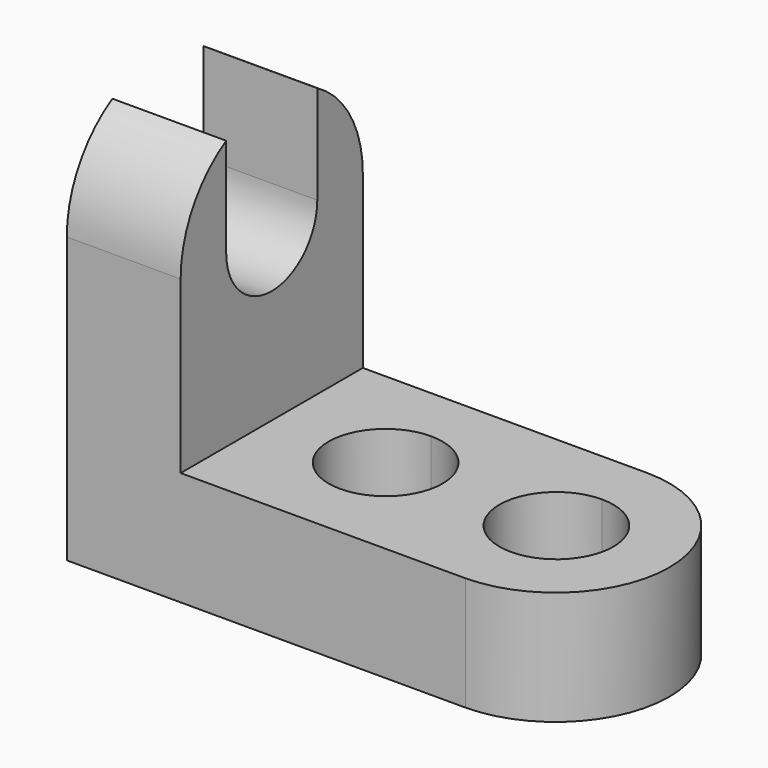
from build123d import *

# Parameters (mm, degrees)
F1_DEPTH = 25.4
F3_DEPTH = 12.701
F5_DEPTH = 12.701


with BuildPart() as f1:
    # F0 (on Front) → F1 (new body)
    with BuildSketch(Plane.XZ):
        Polygon((0, 44.45), (0, 0), (57.15, 0), (57.15, 12.7), (12.7, 12.7), (12.7, 44.45), align=None)
    extrude(amount=F1_DEPTH)

    # F2 (on face) → F3 (cut, through all)
    with BuildSketch(Plane.XY.offset(12.7)):
        with BuildLine():
            Line((25.4, -19.05), (25.4, -6.35))
            ThreePointArc((25.4, -6.35), (19.05, -12.7), (25.4, -19.05))
        make_face()
        with BuildLine():
            ThreePointArc((31.75, -12.7), (29.8901280605, -8.2098719395), (25.4, -6.35))
            Line((25.4, -6.35), (25.4, -19.05))
            ThreePointArc((25.4, -19.05), (29.8901280605, -17.1901280605), (31.75, -12.7))
        make_face()
        with BuildLine():
            Line((44.45, -19.05), (44.45, -6.35))
            ThreePointArc((44.45, -6.35), (38.1, -12.7), (44.45, -19.05))
        make_face()
        with BuildLine():
            ThreePointArc((50.8, -12.7), (48.9401280605, -8.2098719395), (44.45, -6.35))
            Line((44.45, -6.35), (44.45, -19.05))
            ThreePointArc((44.45, -19.05), (48.9401280605, -17.1901280605), (50.8, -12.7))
        make_face()
        with BuildLine():
            Line((57.15, 0), (44.45, 0))
            ThreePointArc((44.45, 0), (57.0547872188, -12.7), (44.45, -25.4))
            Line((44.45, -25.4), (57.15, -25.4))
            Line((57.15, -25.4), (57.15, 0))
        make_face()
    extrude(amount=-F3_DEPTH, mode=Mode.SUBTRACT)

    # F4 (on face) → F5 (cut, through all)
    with BuildSketch(Plane.YZ.offset(12.7)):
        with BuildLine():
            Line((-25.4, 44.45), (-25.4, 31.75))
            ThreePointArc((-25.4, 31.75), (-23.6985226281, 38.1), (-19.05, 42.7485226281))
            Line((-19.05, 42.7485226281), (-19.05, 44.45))
            Line((-19.05, 44.45), (-25.4, 44.45))
        make_face()
        with BuildLine():
            ThreePointArc((-6.35, 42.7485226281), (-1.7014773719, 38.1), (0, 31.75))
            Line((0, 31.75), (0, 44.45))
            Line((0, 44.45), (-6.35, 44.45))
            Line((-6.35, 44.45), (-6.35, 42.7485226281))
        make_face()
        with BuildLine():
            ThreePointArc((-19.05, 31.75), (-12.7, 25.4), (-6.35, 31.75))
            Line((-6.35, 31.75), (-19.05, 31.75))
        make_face()
        with BuildLine():
            Line((-19.05, 31.75), (-6.35, 31.75))
            ThreePointArc((-6.35, 31.75), (-12.7, 38.1), (-19.05, 31.75))
        make_face()
        with BuildLine():
            ThreePointArc((-19.05, 31.75), (-12.7, 38.1), (-6.35, 31.75))
            Line((-6.35, 31.75), (-6.35, 42.7485226281))
            ThreePointArc((-6.35, 42.7485226281), (-9.4129981272, 44.0172579939), (-12.7, 44.45))
            ThreePointArc((-12.7, 44.45), (-15.9870018728, 44.0172579939), (-19.05, 42.7485226281))
            Line((-19.05, 42.7485226281), (-19.05, 31.75))
        make_face()
        with BuildLine():
            ThreePointArc((-12.7, 44.45), (-9.4129981272, 44.0172579939), (-6.35, 42.7485226281))
            Line((-6.35, 42.7485226281), (-6.35, 44.45))
            Line((-6.35, 44.45), (-12.7, 44.45))
        make_face()
        with BuildLine():
            Line((-19.05, 44.45), (-19.05, 42.7485226281))
            ThreePointArc((-19.05, 42.7485226281), (-15.9870018728, 44.0172579939), (-12.7, 44.45))
            Line((-12.7, 44.45), (-19.05, 44.45))
        make_face()
    extrude(amount=-F5_DEPTH, mode=Mode.SUBTRACT)


solid = f1.part
